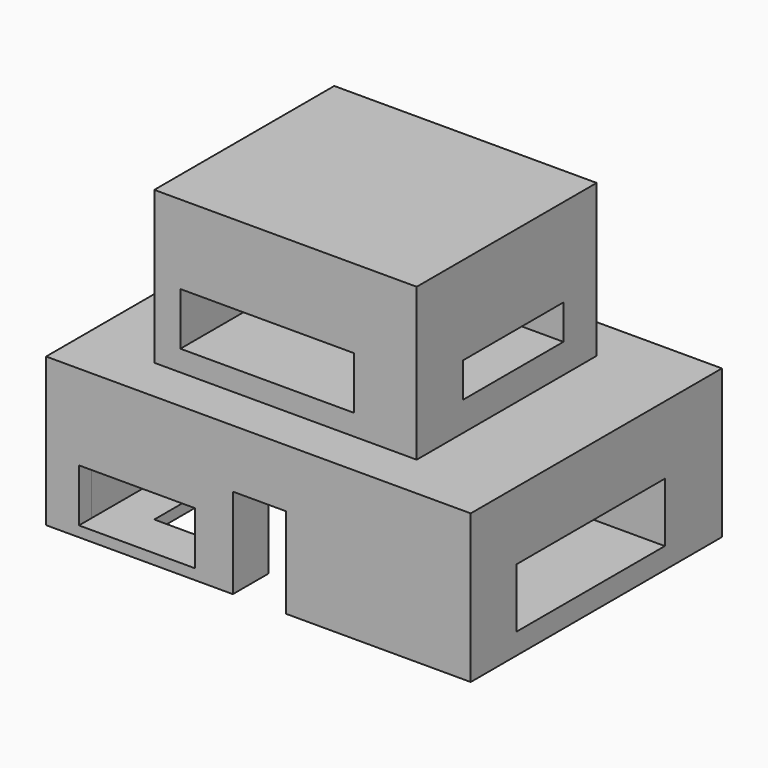
from build123d import *

# Parameters (mm, degrees)
F0_W      = 677.780265
F0_H      = 501.180768
F0_W_2    = 418.851674
F0_H_2    = 359.078794
F1_DEPTH  = 237
F2_W      = 85.066182
F2_H      = 144.125044
F3_DEPTH  = 154
F2_W_2    = 185.224779
F2_H_2    = 84.431998
F4_DEPTH  = 25
F5_W      = 296.359644
F5_H      = 94.710044
F6_DEPTH  = 381
F4_FACE_W = 185.224778
F4_FACE_H = 84.431998
F7_DEPTH  = 139
F8_W      = 418.851674
F8_H      = 359.078794
F9_DEPTH  = 243
F10_W     = 276.896224
F10_H     = 83.870173
F11_DEPTH = 213
F12_W     = 200.079829
F12_H     = 55.427224
F13_DEPTH = 137


with BuildPart() as f1:
    # F0 (on Top) → F1 (new body)
    with BuildSketch(Plane.XY):
        with Locations((13.604429, 0)):
            Rectangle(F0_W, F0_H)
        Rectangle(F0_W_2, F0_H_2, mode=Mode.SUBTRACT)
    extrude(amount=F1_DEPTH)

    # F2 (on face) → F3 (cut)
    with BuildSketch(Plane.XZ.offset(250.590384)):
        with Locations((15.337744, 72.062522)):
            Rectangle(F2_W, F2_H)
    extrude(amount=-F3_DEPTH, mode=Mode.SUBTRACT)

    # F2 (on face) → F4 (cut)
    with BuildSketch(Plane.XZ.offset(250.590384)):
        with Locations((15.337744, 72.062522)):
            Rectangle(F2_W, F2_H)
        with Locations((-180.177298, 58.965165)):
            Rectangle(F2_W_2, F2_H_2)
    extrude(amount=-F4_DEPTH, mode=Mode.SUBTRACT)

    # F5 (on face) → F6 (cut)
    with BuildSketch(Plane.YZ.offset(352.494562)):
        with Locations((-11.492379, 80.989275)):
            Rectangle(F5_W, F5_H)
    extrude(amount=-F6_DEPTH, mode=Mode.SUBTRACT)

    # F4_face (on face) → F7 (cut)
    with BuildSketch(Plane(origin=(-180.177297, -225.590384, 58.965165), x_dir=(1, 0, 0), z_dir=(0, -1, 0))):
        Rectangle(F4_FACE_W, F4_FACE_H)
    extrude(amount=-F7_DEPTH, mode=Mode.SUBTRACT)


with BuildPart() as f9:
    # F8 (on face) → F9 (new body)
    with BuildSketch(Plane.XY.offset(237)):
        Rectangle(F8_W, F8_H)
    extrude(amount=F9_DEPTH)

    # F10 (on face) → F11 (cut)
    with BuildSketch(Plane.XZ.offset(179.539397)):
        with Locations((-29.266335, 312.263369)):
            Rectangle(F10_W, F10_H)
    extrude(amount=-F11_DEPTH, mode=Mode.SUBTRACT)

    # F12 (on face) → F13 (cut)
    with BuildSketch(Plane.YZ.offset(209.425837)):
        with Locations((13.190552, 311.336115)):
            Rectangle(F12_W, F12_H)
    extrude(amount=-F13_DEPTH, mode=Mode.SUBTRACT)


solid = Compound([f1.part, f9.part])
